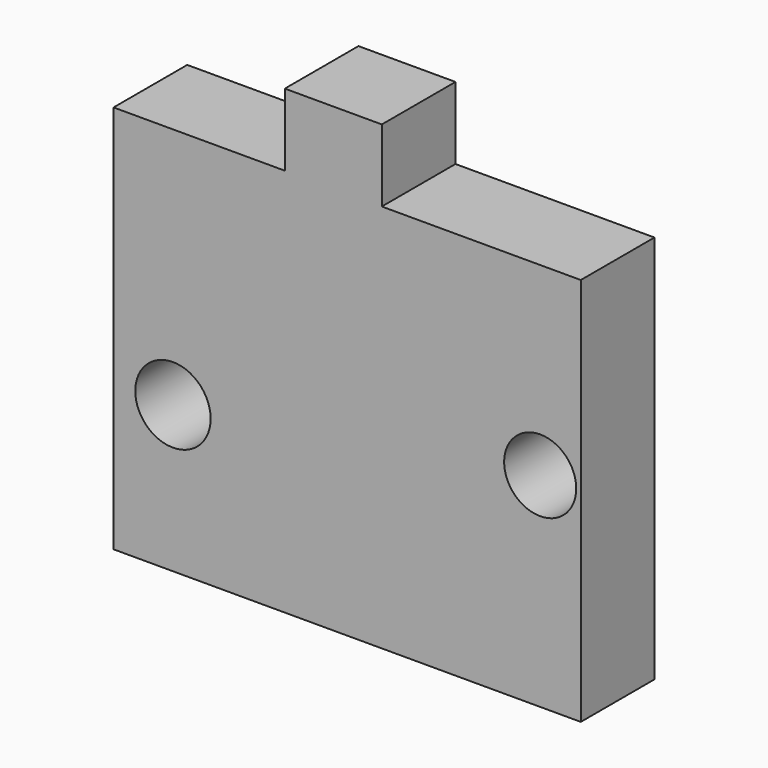
from build123d import *

# Parameters (mm, degrees)
F0_W     = 26.761023
F0_H     = 19.934234
F0_R     = 10.39826
F0_R_2   = 9.939962
F1_DEPTH = 25.4


with BuildPart() as f1:
    # F0 (on Front) → F1 (new body)
    with BuildSketch(Plane.XZ):
        with Locations((2.457644, 63.216092)):
            Rectangle(F0_W, F0_H)
        Polygon((-58.164265, 53.248975), (-58.164265, -54.068189), (70.72556, -54.068189), (70.72556, 53.248975), (15.838156, 53.248975), (-10.922867, 53.248975), align=None)
        with Locations((-41.779965, -13.653585)):
            Circle(F0_R, mode=Mode.SUBTRACT)
        with Locations((59.529621, 2.184573)):
            Circle(F0_R_2, mode=Mode.SUBTRACT)
    extrude(amount=F1_DEPTH)


solid = f1.part
